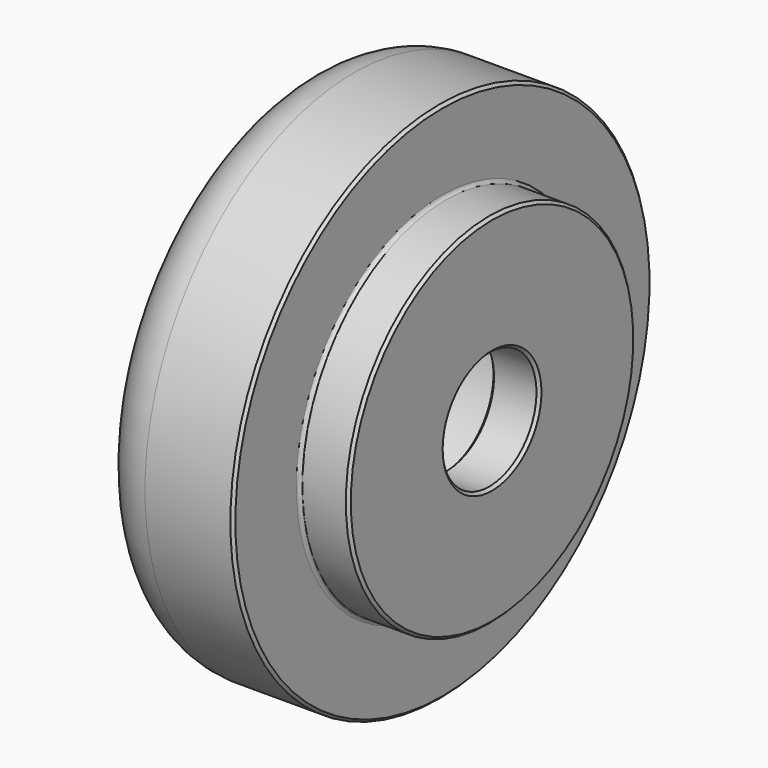
from build123d import *

# Parameters (mm, degrees)
F2_R     = 10
F3_R     = 10.7
F4_DEPTH = 8.7
F5_R     = 0.6
F6_SIZE  = 0.5


with BuildPart() as f1:
    # F0 (on Front) → F1 (revolve)
    with BuildSketch(Plane.XZ):
        Polygon((-8.7, 0), (0, 0), (0, 32.525253), (-9, 32.525253), (-9, 47.45), (-35, 47.45), (-35, 20.825), (-8.7, 20.825), align=None)
    revolve(axis=Axis((-4.35, 0, 0), (-1, 0, 0)))

    # F2
    f2_edges = [f1.edges().sort_by_distance(p)[0] for p in [
        (-35, 0, -47.45),
    ]]
    fillet(f2_edges, radius=F2_R)

    # F3 (on face) → F4 (cut, through all)
    with BuildSketch(Plane(origin=(-8.7, 0, 0), x_dir=(0, -1, 0), z_dir=(-1, 0, 0))):
        Circle(F3_R)
    extrude(amount=-F4_DEPTH, mode=Mode.SUBTRACT)

    # F5
    f5_edges = [f1.edges().sort_by_distance(p)[0] for p in [
        (-8.7, 0, -20.825),
        (-9, 0, -32.525253),
    ]]
    fillet(f5_edges, radius=F5_R)

    # F6
    f6_edges = [f1.edges().sort_by_distance(p)[0] for p in [
        (-9, 0, -47.45),
        (0, 0, -32.525253),
        (0, 10.7, 0),
        (-8.7, 10.7, 0),
        (-35, 0, -20.825),
    ]]
    chamfer(f6_edges, length=F6_SIZE)


solid = f1.part
